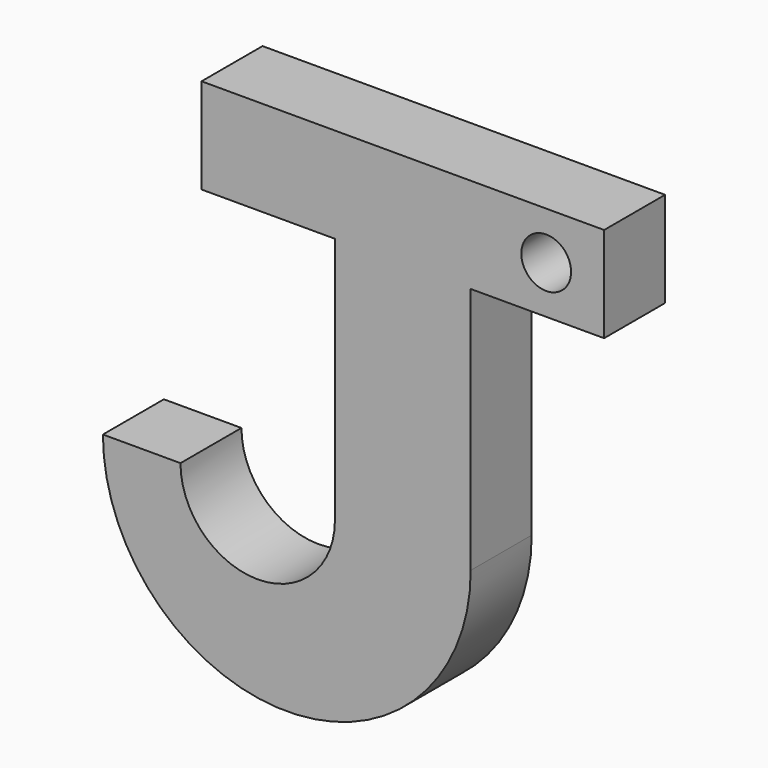
from build123d import *

# Parameters (mm, degrees)
F0_R     = 1.659394
F1_DEPTH = 5.08
F2_DEPTH = 5.08


with BuildPart() as f1:
    # F0 (on Front) → F1 (new body)
    with BuildSketch(Plane.XZ):
        with BuildLine():
            ThreePointArc((-18.956216, 8.89), (-17.961005, 4.052166), (-15.136994, 0))
            Line((-15.136994, 0), (1.737029, 0))
            ThreePointArc((1.737029, 0), (4.56104, 4.052166), (5.556251, 8.89))
            Line((5.556251, 8.89), (5.556251, 25.4))
            Line((5.556251, 25.4), (14.446251, 25.4))
            Line((14.446251, 25.4), (14.446251, 31.75))
            Line((14.446251, 31.75), (-12.3825, 31.75))
            Line((-12.3825, 31.75), (-12.3825, 25.4))
            Line((-12.3825, 25.4), (-3.4925, 25.4))
            Line((-3.4925, 25.4), (-3.4925, 8.89))
            ThreePointArc((-3.4925, 8.89), (-8.639419, 3.743081), (-13.786338, 8.89))
            Line((-13.786338, 8.89), (-18.956216, 8.89))
        make_face()
        with Locations((10.585938, 28.575)):
            Circle(F0_R, mode=Mode.SUBTRACT)
    extrude(amount=F1_DEPTH)

    # F0 (on Front) → F2 (join)
    with BuildSketch(Plane.XZ):
        with BuildLine():
            ThreePointArc((-18.956216, 8.89), (-17.961005, 4.052166), (-15.136994, 0))
            Line((-15.136994, 0), (1.737029, 0))
            ThreePointArc((1.737029, 0), (4.56104, 4.052166), (5.556251, 8.89))
            Line((5.556251, 8.89), (5.556251, 25.4))
            Line((5.556251, 25.4), (14.446251, 25.4))
            Line((14.446251, 25.4), (14.446251, 31.75))
            Line((14.446251, 31.75), (-12.3825, 31.75))
            Line((-12.3825, 31.75), (-12.3825, 25.4))
            Line((-12.3825, 25.4), (-3.4925, 25.4))
            Line((-3.4925, 25.4), (-3.4925, 8.89))
            ThreePointArc((-3.4925, 8.89), (-8.639419, 3.743081), (-13.786338, 8.89))
            Line((-13.786338, 8.89), (-18.956216, 8.89))
        make_face()
        with Locations((10.585938, 28.575)):
            Circle(F0_R, mode=Mode.SUBTRACT)
        with BuildLine():
            Line((1.737029, 0), (-15.136994, 0))
            ThreePointArc((-15.136994, 0), (-6.699983, -3.366234), (1.737029, 0))
        make_face()
    extrude(amount=F2_DEPTH)


solid = f1.part
